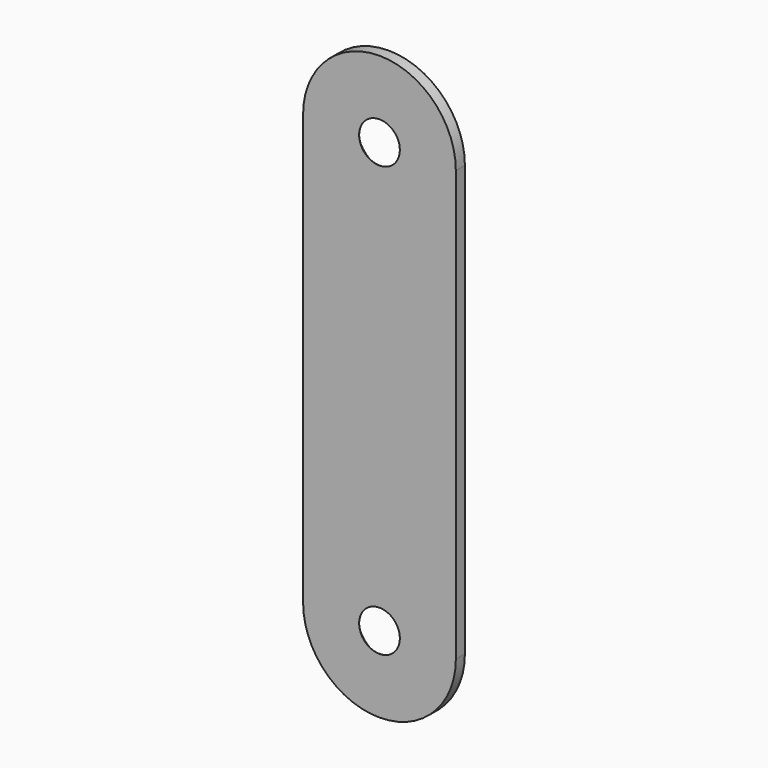
from build123d import *

# Parameters (mm, degrees)
SKETCH_R     = 1.8
PAD_DEPTH    = 1
CHAMFER_SIZE = 0.99


with BuildPart() as part:
    # Sketch → Pad (new body)
    with BuildSketch(Plane.XZ):
        with BuildLine():
            Line((6.75, 38), (6.75, 0))
            ThreePointArc((-6.75, 0), (0, -6.75), (6.75, 0))
            Line((-6.75, 0), (-6.75, 38))
            ThreePointArc((6.75, 38), (0, 44.75), (-6.75, 38))
        make_face()
        with Locations((0, 38)):
            Circle(SKETCH_R, mode=Mode.SUBTRACT)
        Circle(SKETCH_R, mode=Mode.SUBTRACT)
    extrude(amount=PAD_DEPTH)

    # Chamfer
    chamfer_edges = [part.edges().sort_by_distance(p)[0] for p in [
        (-1.8, 0, 0),
        (-1.8, 0, 38),
    ]]
    chamfer(chamfer_edges, length=CHAMFER_SIZE)


solid = part.part
